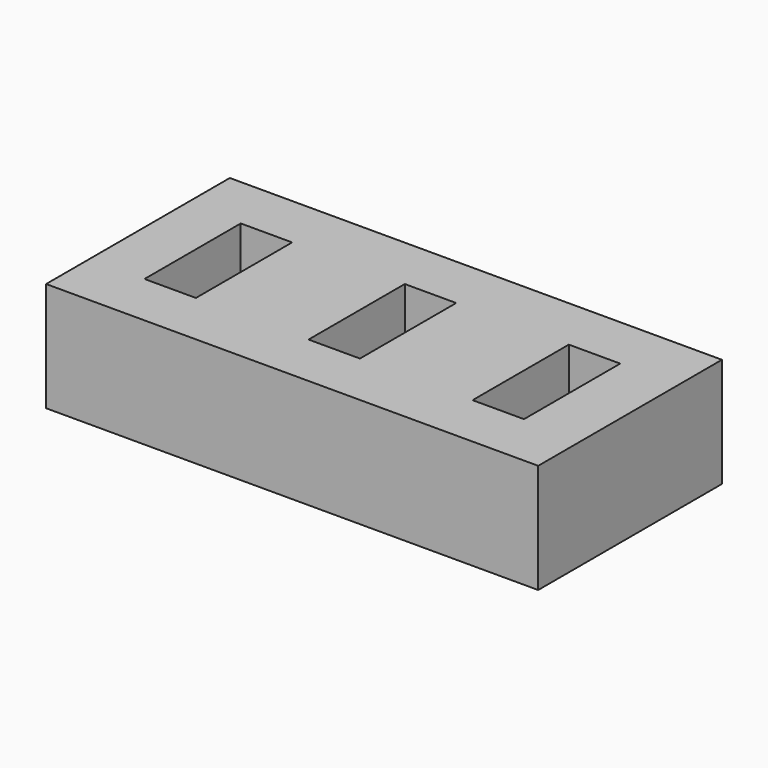
from build123d import *

# Parameters (mm, degrees)
BOX002_W     = 4.7
BOX002_H     = 11
BOX002_DEPTH = 9
BOX003_W     = 4.7
BOX003_H     = 11
BOX003_DEPTH = 9
BOX001_W     = 4.7
BOX001_H     = 11
BOX001_DEPTH = 9
BOX_W        = 45
BOX_H        = 21
BOX_DEPTH    = 10


with BuildPart() as hueco001:
    # Box002 → Box002 (new body)
    with BuildSketch(Plane(origin=(20, 5, 3), x_dir=(1, 0, 0), z_dir=(0, 0, 1))):
        with Locations((2.35, 5.5)):
            Rectangle(BOX002_W, BOX002_H)
    extrude(amount=BOX002_DEPTH)


with BuildPart() as hueco002:
    # Box003 → Box003 (new body)
    with BuildSketch(Plane(origin=(35, 5, 3), x_dir=(1, 0, 0), z_dir=(0, 0, 1))):
        with Locations((2.35, 5.5)):
            Rectangle(BOX003_W, BOX003_H)
    extrude(amount=BOX003_DEPTH)


with BuildPart() as hueco:
    # Box001 → Box001 (new body)
    with BuildSketch(Plane(origin=(5, 5, 3), x_dir=(1, 0, 0), z_dir=(0, 0, 1))):
        with Locations((2.35, 5.5)):
            Rectangle(BOX001_W, BOX001_H)
    extrude(amount=BOX001_DEPTH)


with BuildPart() as cut002:
    # Box → Box (new body)
    with BuildSketch(Plane.XY):
        with Locations((22.5, 10.5)):
            Rectangle(BOX_W, BOX_H)
    extrude(amount=BOX_DEPTH)

    # Cut: cut Hueco
    add(hueco.part, mode=Mode.SUBTRACT)

    # Cut001: cut Hueco002
    add(hueco002.part, mode=Mode.SUBTRACT)

    # Cut002: cut Hueco001
    add(hueco001.part, mode=Mode.SUBTRACT)


solid = cut002.part
